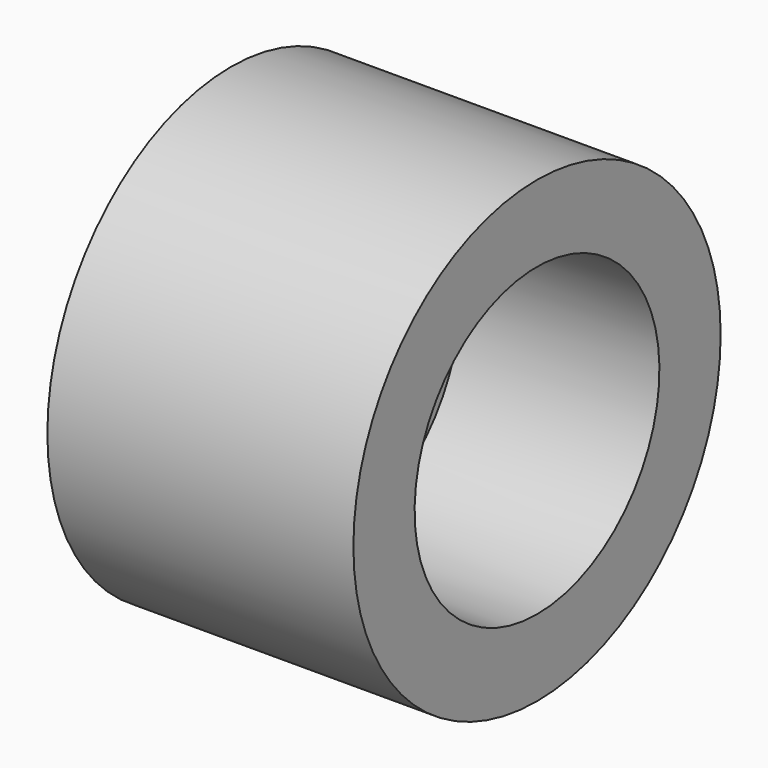
from build123d import *

# Parameters (mm, degrees)
CYLINDER029_R           = 10
CYLINDER029_DEPTH       = 16
CYLINDER029_PITCH_ANGLE = 90
CYLINDER028_R           = 15
CYLINDER028_DEPTH       = 20
CYLINDER028_PITCH_ANGLE = 90


with BuildPart() as cylinder029:
    # Cylinder029 → Cylinder029 (new body)
    with BuildSketch(Plane.XY):
        Circle(CYLINDER029_R)
    extrude(amount=CYLINDER029_DEPTH)


with BuildPart() as cylinder029_1:
    # Cylinder029 pitch: moved
    add(cylinder029.part.rotate(Axis((0, 0, 0), (0, 1, 0)), CYLINDER029_PITCH_ANGLE))


with BuildPart() as cylinder029_2:
    # Cylinder029 placement: moved
    add(cylinder029_1.part.moved(Location((492, 45, 45))))


with BuildPart() as micro_grid_plug:
    # Cylinder028 → Cylinder028 (new body)
    with BuildSketch(Plane.XY):
        Circle(CYLINDER028_R)
    extrude(amount=CYLINDER028_DEPTH)


with BuildPart() as micro_grid_plug_1:
    # Cylinder028 pitch: moved
    add(micro_grid_plug.part.rotate(Axis((0, 0, 0), (0, 1, 0)), CYLINDER028_PITCH_ANGLE))


with BuildPart() as micro_grid_plug_2:
    # Cylinder028 placement: moved
    add(micro_grid_plug_1.part.moved(Location((485, 45, 45))))

    # Cut015: cut Cylinder029
    add(cylinder029_2.part, mode=Mode.SUBTRACT)


solid = micro_grid_plug_2.part
